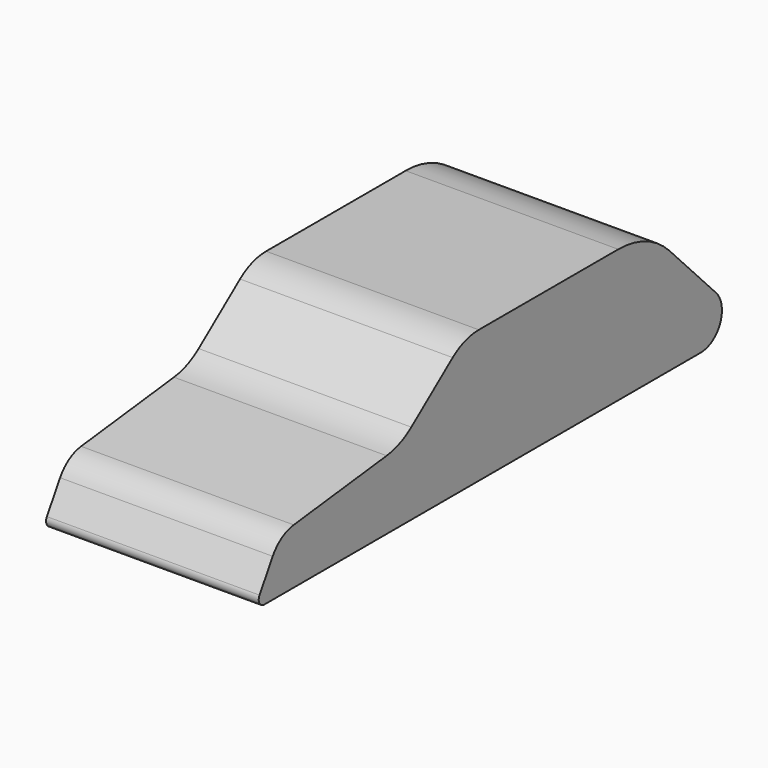
from build123d import *

# Parameters (mm, degrees)
F1_DEPTH = 3048


with BuildPart() as f1:
    # F0 (on Right) → F1 (new body)
    with BuildSketch(Plane.YZ):
        with BuildLine():
            ThreePointArc((-3629.364354, 44.492335), (-3630.655384, -57.838634), (-3542.243073, -109.380434))
            Line((-3542.243073, -109.380434), (4274.402974, -109.380434))
            ThreePointArc((4274.402974, -109.380434), (4624.895208, 122.23351), (4549.251543, 535.474192))
            Line((4549.251543, 535.474192), (3714.377179, 1405.134988))
            ThreePointArc((3714.377179, 1405.134988), (3296.168801, 1693.927014), (2798.215282, 1795.619566))
            Line((2798.215282, 1795.619566), (298.96009, 1795.619566))
            ThreePointArc((298.96009, 1795.619566), (51.663334, 1754.374944), (-168.862657, 1635.105955))
            Line((-168.862657, 1635.105955), (-909.790381, 1058.828838))
            ThreePointArc((-909.790381, 1058.828838), (-1118.356018, 938.006841), (-1351.711717, 877.652072))
            Line((-1351.711717, 877.652072), (-3016.635489, 681.778687))
            ThreePointArc((-3016.635489, 681.778687), (-3233.012028, 603.914861), (-3392.886541, 438.622023))
            Line((-3392.886541, 438.622023), (-3629.364354, 44.492335))
        make_face()
    extrude(amount=-F1_DEPTH)


solid = f1.part
